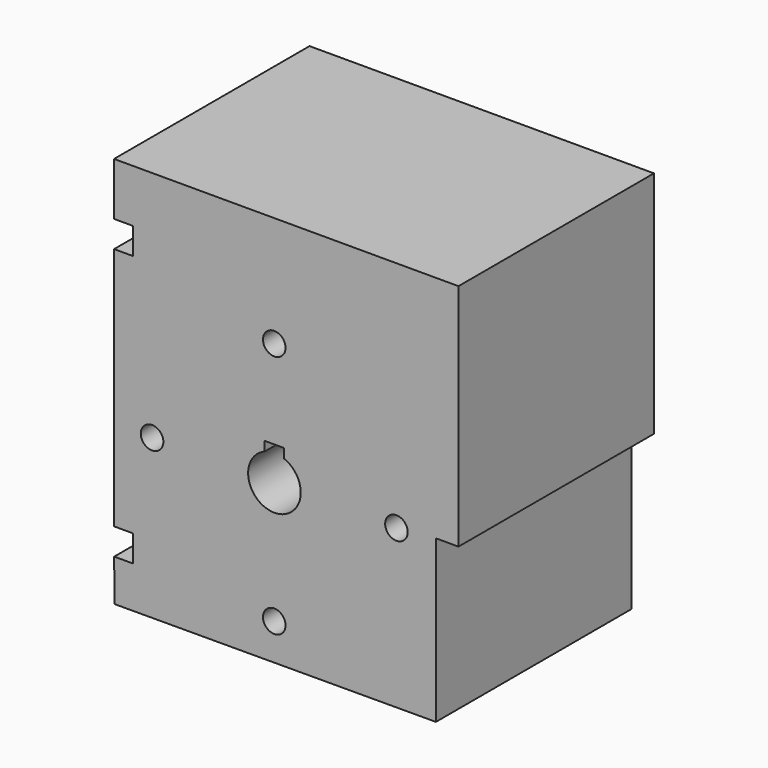
from build123d import *

# Parameters (mm, degrees)
PAD002_DEPTH           = 65
SKETCH004_R            = 3
HOLE001_DEPTH          = 72
POCKET_DEPTH           = 72
POCKET001_DEPTH        = 5
LINEARPATTERN_COUNT    = 2
LINEARPATTERN_PITCH    = 72
POCKET002_DEPTH        = 5
LINEARPATTERN001_COUNT = 2
LINEARPATTERN001_PITCH = 72


with BuildPart() as part:
    # Sketch003 → Pad002 (new body)
    with BuildSketch(Plane.XZ):
        Polygon((3, -80), (-88.623817, -80), (-88.563461, -184.210968), (-3, -184), (-3, -141), (3, -141), align=None)
    extrude(amount=PAD002_DEPTH)

    # Sketch004 (on Face8 of Pad002) → Hole001 (cut)
    with BuildSketch(Plane.XZ.offset(65)):
        with Locations((-46, -109.40177)):
            Circle(SKETCH004_R)
        with Locations((-13.507946, -142)):
            Circle(SKETCH004_R)
        with Locations((-45.999997, -174.401768)):
            Circle(SKETCH004_R)
        with Locations((-78.507649, -142)):
            Circle(SKETCH004_R)
    extrude(amount=-HOLE001_DEPTH, mode=Mode.SUBTRACT)

    # Sketch005 (on Face5 of Hole001) → Pocket (cut)
    with BuildSketch(Plane.XZ.offset(65)):
        with BuildLine():
            ThreePointArc((-48.547432, -135.480744), (-45.913728, -148.984728), (-43.457714, -135.447299))
            Line((-43.457714, -132.991287), (-43.457714, -135.447299))
            Line((-48.547432, -132.991287), (-43.457714, -132.991287))
            Line((-48.547432, -135.480744), (-48.547432, -132.991287))
        make_face()
    extrude(amount=-POCKET_DEPTH, mode=Mode.SUBTRACT)

    # Sketch007 (on Face3 of Pocket) → Pocket001 (cut)
    with BuildSketch(Plane(origin=(-88.670121, 0, -0.051355), x_dir=(0.000579, 0, -1), z_dir=(-1, 0, -0.000579))):
        with BuildLine():
            Line((94, 65.961746), (101.060434, 65.961746))
            Line((101.060434, 65.961746), (101.060434, 54.602297))
            ThreePointArc((94, 54.553143), (97.554966, 51.02284), (101.060434, 54.602297))
            Line((94, 54.553143), (94, 65.961746))
        make_face()
    pocket001 = extrude(amount=-POCKET001_DEPTH, mode=Mode.SUBTRACT)

    # LinearPattern: Pocket001 ×2
    with Locations(*[Vector(0.000579, 0, -1) * (i * LINEARPATTERN_PITCH) for i in range(1, LINEARPATTERN_COUNT)]):
        add(pocket001, mode=Mode.SUBTRACT)

    # Sketch008 (on Face3 of LinearPattern) → Pocket002 (cut)
    with BuildSketch(Plane(origin=(-88.670121, 0, -0.051355), x_dir=(0.000579, 0, -1), z_dir=(-1, 0, -0.000579))):
        with BuildLine():
            ThreePointArc((101.128495, 11.00325), (97.494061, 14.625529), (93.920682, 10.943006))
            Line((93.920682, -1.640862), (93.920682, 10.943006))
            Line((101.128495, -1.640862), (93.920682, -1.640862))
            Line((101.128495, 11.00325), (101.128495, -1.640862))
        make_face()
    pocket002 = extrude(amount=-POCKET002_DEPTH, mode=Mode.SUBTRACT)

    # LinearPattern001: Pocket002 ×2
    with Locations(*[Vector(0.000579, 0, -1) * (i * LINEARPATTERN001_PITCH) for i in range(1, LINEARPATTERN001_COUNT)]):
        add(pocket002, mode=Mode.SUBTRACT)


with BuildPart() as part_1:
    # Body002 placement: moved
    add(part.part.moved(Location((0, 66, 0))))


solid = part_1.part
